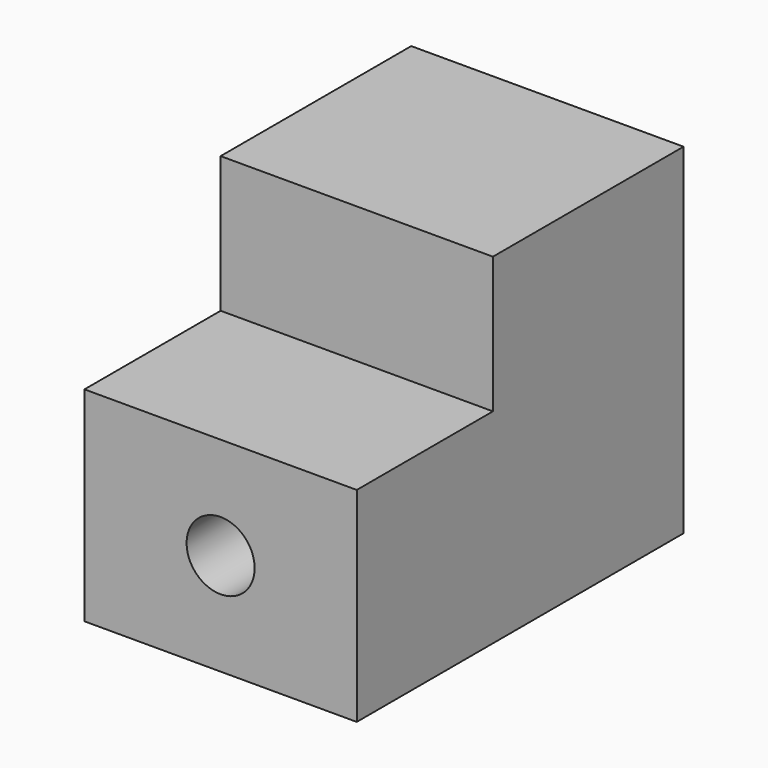
from build123d import *

# Parameters (mm, degrees)
F0_W     = 101.6
F0_H     = 152.4
F1_DEPTH = 76.2
F2_W     = 101.6
F2_H     = 88.9
F3_DEPTH = 50.8
F5_D     = 25.4


with BuildPart() as f1:
    # F0 (on Top) → F1 (new body)
    with BuildSketch(Plane.XY):
        with Locations((-7.225263, -70.342713)):
            Rectangle(F0_W, F0_H)
    extrude(amount=F1_DEPTH)

    # F2 (on face) → F3 (join)
    with BuildSketch(Plane.XY.offset(76.2)):
        with Locations((-7.225263, -38.592713)):
            Rectangle(F2_W, F2_H)
    extrude(amount=F3_DEPTH)

    # F5 (through all)
    with Locations(Plane.XZ.offset(146.542713)):
        with Locations((-7.225263, 38.1)):
            Hole(F5_D / 2)


solid = f1.part
